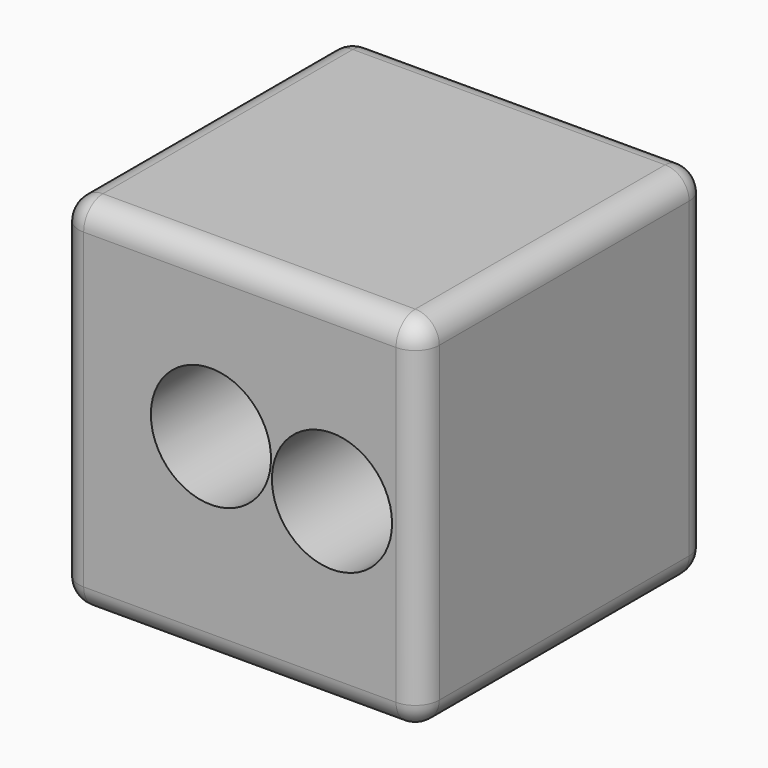
from build123d import *

# Parameters (mm, degrees)
F0_W     = 76.2
F0_H     = 76.2
F1_DEPTH = 76.2
F2_R     = 5.08
F4_D     = 25.4
F6_D     = 25.4


with BuildPart() as f1:
    # F0 (on Front) → F1 (new body)
    with BuildSketch(Plane.XZ):
        with Locations((6.111342, -3.729404)):
            Rectangle(F0_W, F0_H)
    extrude(amount=F1_DEPTH)

    # F2
    f2_edges = [f1.edges().sort_by_distance(p)[0] for p in [
        (44.211342, -38.1, 34.370596),
        (6.111342, -76.2, 34.370596),
        (44.211342, -76.2, -3.729404),
        (44.211342, -38.1, -41.829404),
        (6.111342, -76.2, -41.829404),
        (-31.988658, -38.1, 34.370596),
        (6.111342, 0, 34.370596),
        (44.211342, 0, -3.729404),
        (6.111342, 0, -41.829404),
        (-31.988658, -38.1, -41.829404),
        (-31.988658, 0, -3.729404),
        (-31.988658, -76.2, -3.729404),
    ]]
    fillet(f2_edges, radius=F2_R)

    # F4 (through all)
    with Locations(Plane.XZ.offset(76.2)):
        with Locations((0, 0)):
            Hole(F4_D / 2)

    # F6 (through all)
    with Locations(Plane(origin=(0, 0, 0), x_dir=(-1, 0, 0), z_dir=(0, 1, 0))):
        with Locations((-25.59245, -3.729404)):
            Hole(F6_D / 2)


solid = f1.part
